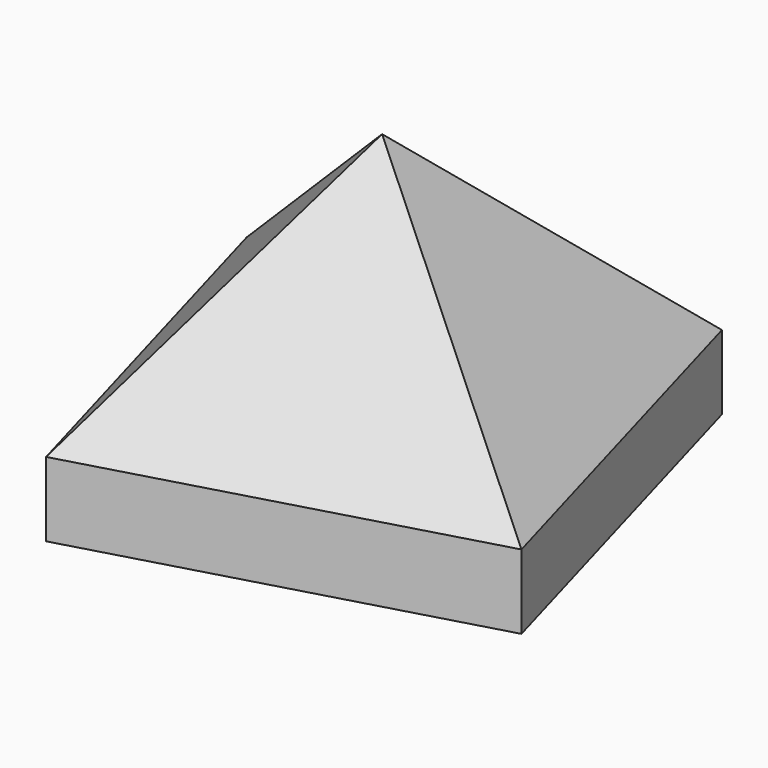
from build123d import *

# Parameters (mm, degrees)
F1_DEPTH = 25


with BuildPart() as f1:
    # F0 (on Top) → F1 (new body)
    with BuildSketch(Plane.XY):
        Polygon((-83.662644, 46.76469), (-46.76469, -83.662644), (83.662644, -46.76469), (46.76469, 83.662644), align=None)
    extrude(amount=F1_DEPTH)

    # F1_face (on face) → F4 section 0
    with BuildSketch(Plane.XY.offset(25), mode=Mode.PRIVATE) as f4_s0:
        Polygon((83.662644, -46.76469), (46.76469, 83.662644), (-83.662644, 46.76469), (-46.76469, -83.662644), align=None)
    loft([Vertex(-2.560169, 2.400158, 100), f4_s0.sketch])


solid = f1.part
